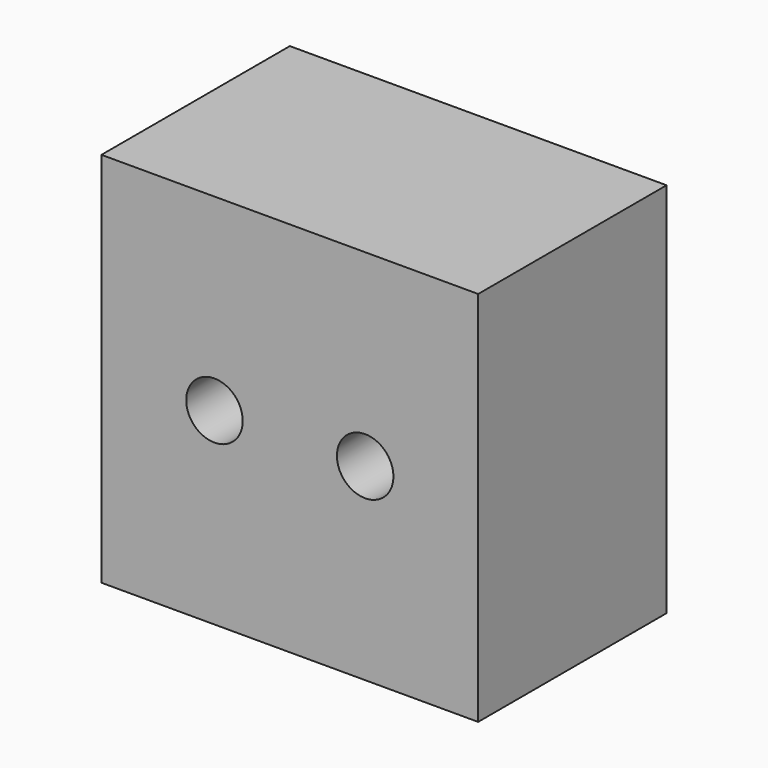
from build123d import *

# Parameters (mm, degrees)
CYLINDER016_R          = 3
CYLINDER016_DEPTH      = 20
CYLINDER016_ROLL_ANGLE = 90
CYLINDER015_R          = 3
CYLINDER015_DEPTH      = 20
CYLINDER015_ROLL_ANGLE = 90
BOX016_W               = 40
BOX016_H               = 40
BOX016_DEPTH           = 25
BOX016_ROLL_ANGLE      = 90


with BuildPart() as cylinder016:
    # Cylinder016 → Cylinder016 (new body)
    with BuildSketch(Plane.XY):
        Circle(CYLINDER016_R)
    extrude(amount=CYLINDER016_DEPTH)


with BuildPart() as cylinder016_1:
    # Cylinder016 roll: moved
    add(cylinder016.part.rotate(Axis((0, 0, 0), (1, 0, 0)), CYLINDER016_ROLL_ANGLE))


with BuildPart() as cylinder016_2:
    # Cylinder016 placement: moved
    add(cylinder016_1.part.moved(Location((162, -7, 145))))


with BuildPart() as cylinder015:
    # Cylinder015 → Cylinder015 (new body)
    with BuildSketch(Plane.XY):
        Circle(CYLINDER015_R)
    extrude(amount=CYLINDER015_DEPTH)


with BuildPart() as cylinder015_1:
    # Cylinder015 roll: moved
    add(cylinder015.part.rotate(Axis((0, 0, 0), (1, 0, 0)), CYLINDER015_ROLL_ANGLE))


with BuildPart() as cylinder015_2:
    # Cylinder015 placement: moved
    add(cylinder015_1.part.moved(Location((178, -7, 145))))


with BuildPart() as cut009:
    # Box016 → Box016 (new body)
    with BuildSketch(Plane.XY):
        with Locations((20, 20)):
            Rectangle(BOX016_W, BOX016_H)
    extrude(amount=BOX016_DEPTH)


with BuildPart() as cut009_1:
    # Box016 roll: moved
    add(cut009.part.rotate(Axis((0, 0, 0), (1, 0, 0)), BOX016_ROLL_ANGLE))


with BuildPart() as cut009_2:
    # Box016 placement: moved
    add(cut009_1.part.moved(Location((150, 0, 125))))

    # Cut008: cut Cylinder015
    add(cylinder015_2.part, mode=Mode.SUBTRACT)

    # Cut009: cut Cylinder016
    add(cylinder016_2.part, mode=Mode.SUBTRACT)


with BuildPart() as cut009_3:
    # Cut009 placement: moved
    add(cut009_2.part.moved(Location((0, 20, 0))))


solid = cut009_3.part
